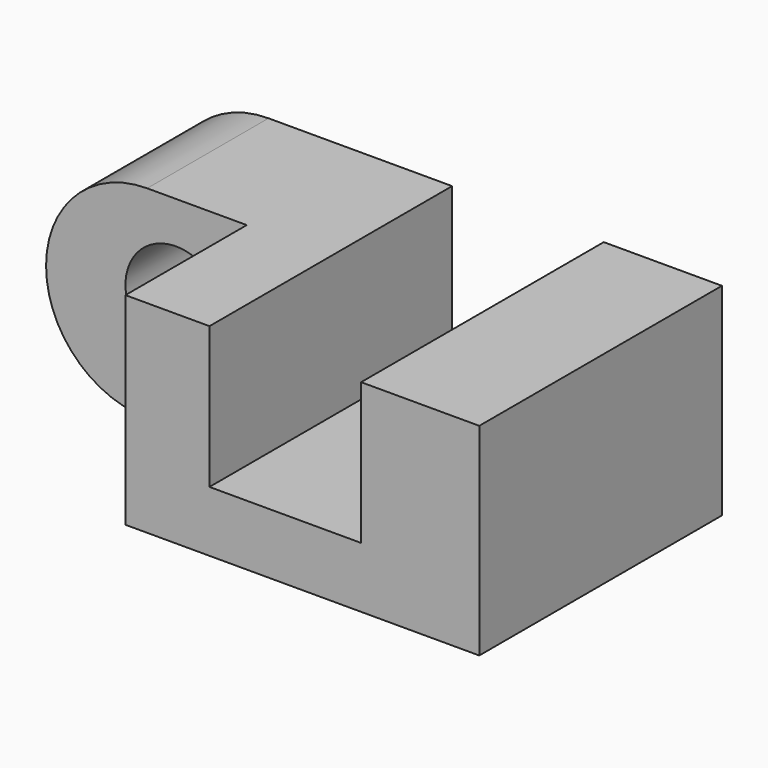
from build123d import *

# Parameters (mm, degrees)
F0_W     = 1778
F0_H     = 1016
F1_DEPTH = 1524
F2_W     = 762
F2_H     = 711.2
F3_DEPTH = 1524
F5_DEPTH = 762
F6_R     = 254
F7_DEPTH = 762


with BuildPart() as f1:
    # F0 (on Front) → F1 (new body)
    with BuildSketch(Plane.XZ):
        with Locations((-0.520221889, 68.4382907511)):
            Rectangle(F0_W, F0_H)
    extrude(amount=F1_DEPTH)

    # F2 (on face) → F3 (cut)
    with BuildSketch(Plane.XZ.offset(1524)):
        with Locations((-86.2960639, 220.8382907511)):
            Rectangle(F2_W, F2_H)
    extrude(amount=-F3_DEPTH, mode=Mode.SUBTRACT)

    # F4 (on face) → F5 (join)
    with BuildSketch(Plane(origin=(0, 0, 0), x_dir=(-1, 0, 0), z_dir=(0, 1, 0))):
        with BuildLine():
            Line((1389.8735046387, 576.4382907511), (889.520221889, 576.4382907511))
            Line((889.520221889, 576.4382907511), (889.520221889, -439.5617092489))
            Line((889.520221889, -439.5617092489), (1389.8735046387, -439.5617092489))
            ThreePointArc((1389.8735046387, -439.5617092489), (1897.8735046387, 68.4382907511), (1389.8735046387, 576.4382907511))
        make_face()
    extrude(amount=-F5_DEPTH)

    # F6 (on face) → F7 (cut)
    with BuildSketch(Plane.XZ.offset(762)):
        with Locations((-1245.120221889, 112.9164099693)):
            Circle(F6_R)
    extrude(amount=-F7_DEPTH, mode=Mode.SUBTRACT)


solid = f1.part
